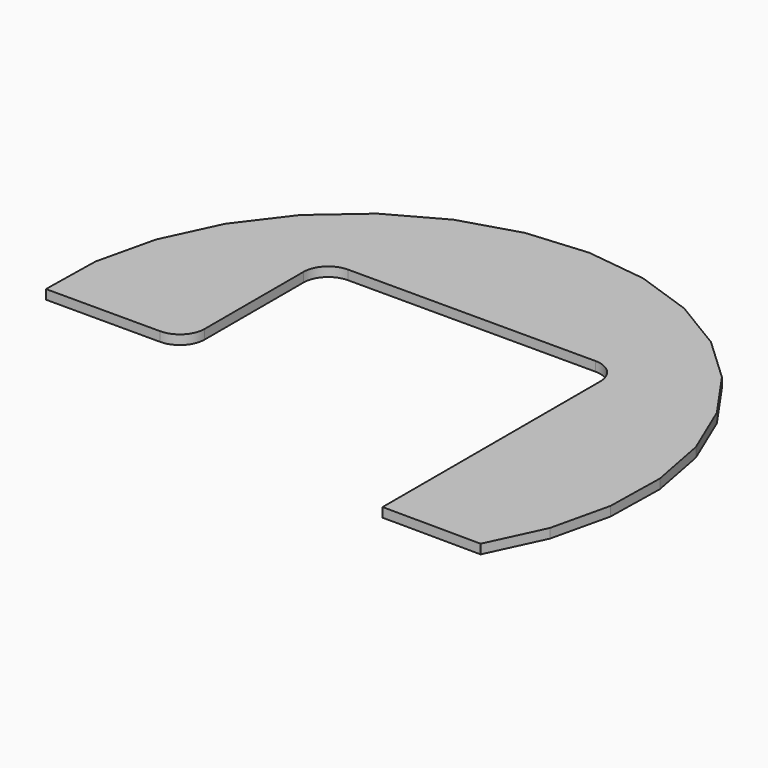
from build123d import *

# Parameters (mm, degrees)
F1_DEPTH = 19


with BuildPart() as f1:
    # F0 (on Top) → F1 (new body)
    with BuildSketch(Plane.XY):
        Polygon((-0.777927, -1.292751), (-0.172028, 0), (-0.777927, 0), align=None)
        with BuildLine():
            Line((-0.777927, 0), (-0.172028, 0))
            Line((-0.172028, 0), (50.955158, 109.085324))
            Line((50.955158, 109.085324), (78.608859, 227.807286))
            Line((78.608859, 227.807286), (80.974577, 349.684416))
            Line((80.974577, 349.684416), (57.948917, 469.390099))
            Line((57.948917, 469.390099), (10.538213, 581.692622))
            Line((10.538213, 581.692622), (-59.185461, 681.683825))
            Line((-59.185461, 681.683825), (-148.174846, 764.993614))
            Line((-148.174846, 764.993614), (-252.540678, 827.98095))
            Line((-252.540678, 827.98095), (-367.72167, 867.892986))
            Line((-367.72167, 867.892986), (-488.68386, 882.985373))
            Line((-488.68386, 882.985373), (-610.140619, 872.598502))
            Line((-610.140619, 872.598502), (-726.783705, 837.186328))
            Line((-726.783705, 837.186328), (-833.515255, 778.296534))
            Line((-833.515255, 778.296534), (-925.670588, 698.502887))
            Line((-925.670588, 698.502887), (-999.222073, 601.292751))
            Line((-999.222073, 601.292751), (-1050.955158, 490.914676))
            Line((-1050.955158, 490.914676), (-1078.608859, 372.192714))
            Line((-1078.608859, 372.192714), (-1080.630219, 268.056211))
            Line((-1080.630219, 268.056211), (-1080.630219, 250.056211))
            Line((-1080.630219, 250.056211), (-850.056159, 250.056222))
            ThreePointArc((-850.056159, 250.056222), (-814.664522, 264.681002), (-800, 300.05619))
            Line((-800, 300.05619), (-800, 550))
            ThreePointArc((-800, 550), (-785.355339, 585.355339), (-750, 600))
            Line((-750, 600), (-250, 600))
            ThreePointArc((-250, 600), (-214.644661, 585.355339), (-200, 550))
            Line((-200, 550), (-200, 16.707249))
            Line((-200, 16.707249), (-200, 0))
            Line((-200, 0), (-0.777927, -1.292751))
            Line((-0.777927, -1.292751), (-0.777927, 0))
        make_face()
    extrude(amount=-F1_DEPTH)


solid = f1.part
